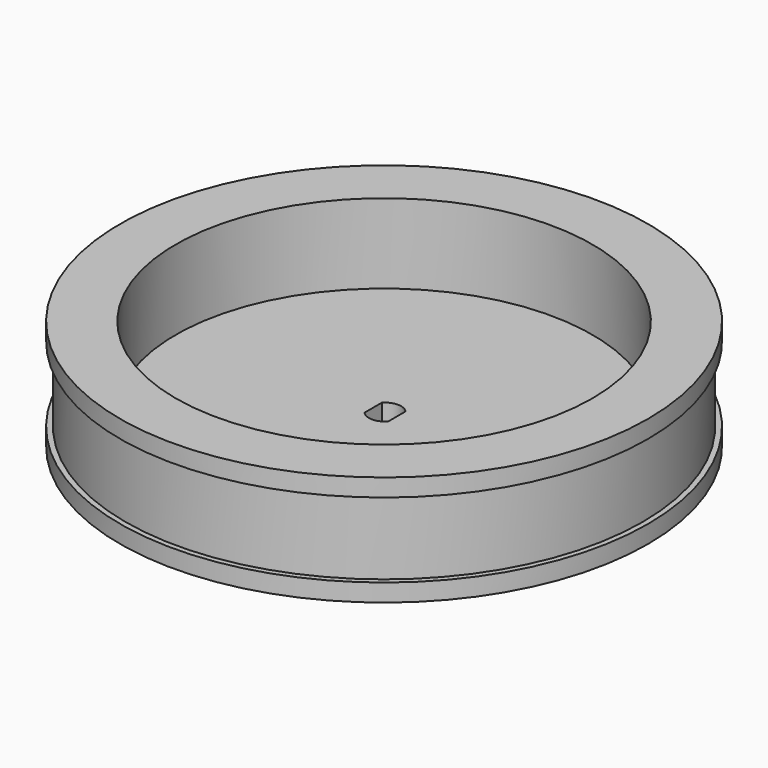
from build123d import *

# Parameters (mm, degrees)
EXTRUDE019_DEPTH           = 40
EXTRUDE019_ROLL_ANGLE      = -90
EXTRUDE019_PLACEMENT_ANGLE = 90
SKETCH001_R                = 39.566192
EXTRUDE_DEPTH              = 20


with BuildPart() as pieza_clave_motor003:
    # Sketch021 → Extrude019 (new body)
    with BuildSketch(Plane(origin=(0, -17.4, 11), x_dir=(-1, 0, 0), z_dir=(0, 1, 0))):
        with BuildLine():
            Line((-2.055, -8.921835), (2.055, -8.921835))
            ThreePointArc((2.055, -13.431835), (3.05091, -11.176835), (2.055, -8.921835))
            Line((2.055, -13.431835), (-2.055, -13.431835))
            ThreePointArc((-2.055, -8.921835), (-3.05091, -11.176835), (-2.055, -13.431835))
        make_face()
    extrude(amount=EXTRUDE019_DEPTH)


with BuildPart() as pieza_clave_motor003_1:
    # Extrude019 roll: moved
    add(pieza_clave_motor003.part.rotate(Axis((0, 0, 0), (1, 0, 0)), EXTRUDE019_ROLL_ANGLE))


with BuildPart() as pieza_clave_motor003_2:
    # Extrude019 placement: moved
    add(pieza_clave_motor003_1.part.moved(Location((0, 0, 13.85))).rotate(Axis((0, 0, 13.85), (0, 0, 1)), EXTRUDE019_PLACEMENT_ANGLE))


with BuildPart() as extrude_body:
    # Sketch001 (on Face7 of Revolve) → Extrude (new body)
    with BuildSketch(Plane.XY.offset(20.92)):
        Circle(SKETCH001_R)
    extrude(amount=EXTRUDE_DEPTH)


with BuildPart() as extrude_body_1:
    # Extrude placement: moved
    add(extrude_body.part.moved(Location((0, 0, -15.1))))


with BuildPart() as cut001:
    # Sketch → Revolve (revolve)
    with BuildSketch(Plane.XZ):
        Polygon((0, 0), (50.12, 0), (50.12, 3.355495), (49.1, 3.355495), (49.1, 17.564505), (50.12, 17.564505), (50.12, 20.92), (0, 20.92), align=None)
    revolve(axis=Axis((0, 0, 0), (0, 0, 1)))

    # Cut: cut Extrude body
    add(extrude_body_1.part, mode=Mode.SUBTRACT)

    # Cut001: cut Pieza Clave motor003
    add(pieza_clave_motor003_2.part, mode=Mode.SUBTRACT)


solid = cut001.part
